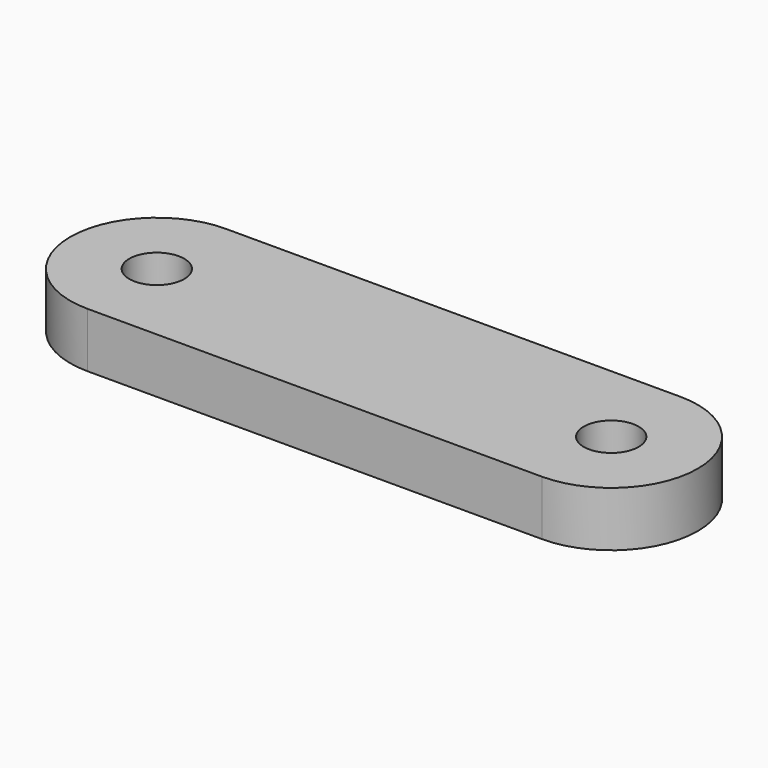
from build123d import *

# Parameters (mm, degrees)
F2_DEPTH = 6.35
F1_R     = 3.175
F3_DEPTH = 6.351


with BuildPart() as f2:
    # F0 (on Top) → F2 (new body)
    with BuildSketch(Plane.XY):
        with BuildLine():
            Line((9.545455, 0), (62.045455, 0))
            ThreePointArc((62.045455, 0), (72.045455, 10), (62.045455, 20))
            Line((62.045455, 20), (9.545455, 20))
            ThreePointArc((9.545455, 20), (-0.454545, 10), (9.545455, 0))
        make_face()
    extrude(amount=F2_DEPTH)

    # F1 (on face) → F3 (cut, through all)
    with BuildSketch(Plane.XY):
        with Locations((62.045455, 10)):
            Circle(F1_R)
        with Locations((9.545455, 10)):
            Circle(F1_R)
    extrude(amount=F3_DEPTH, mode=Mode.SUBTRACT)


solid = f2.part
